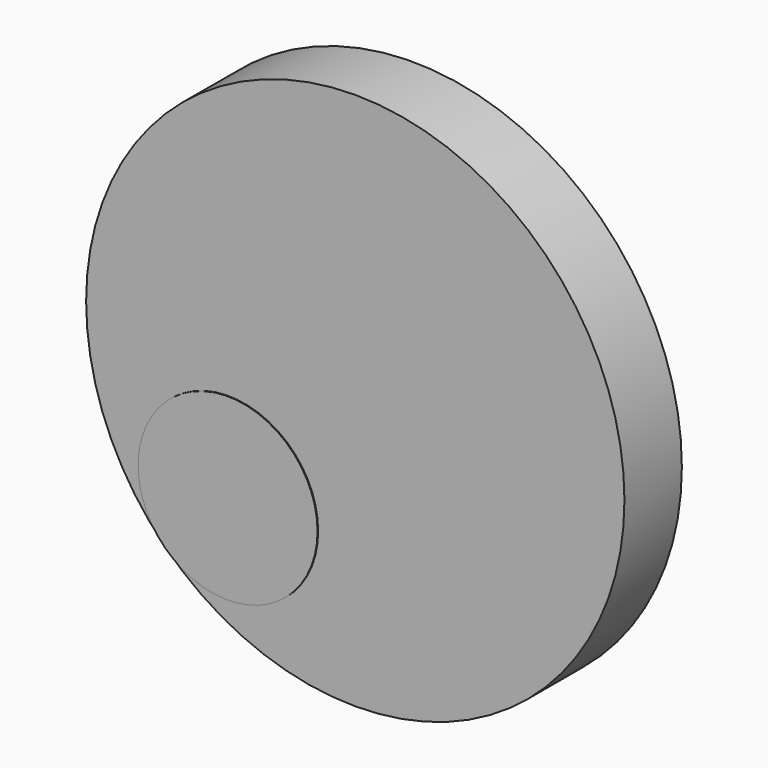
from build123d import *

# Parameters (mm, degrees)
F0_R     = 9.525
F1_DEPTH = 2.54
F2_R     = 3.175
F3_DEPTH = 0.0254


with BuildPart() as f1:
    # F0 (on Front) → F1 (new body)
    with BuildSketch(Plane.XZ):
        Circle(F0_R)
    extrude(amount=F1_DEPTH)

    # F2 (on face) → F3 (join)
    with BuildSketch(Plane.XZ.offset(2.54)):
        with Locations((-4.490128, -4.490128)):
            Circle(F2_R)
    extrude(amount=F3_DEPTH)


solid = f1.part
